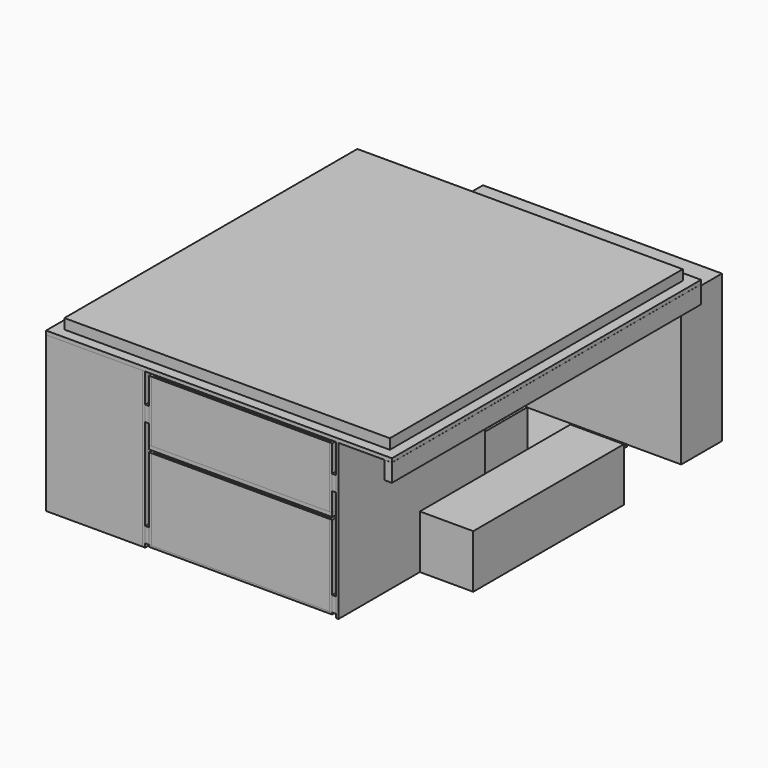
from build123d import *

# Parameters (mm, degrees)
F0_W           = 1727.2
F0_H           = 19.05
F1_DEPTH       = 1930.4
F0_W_2         = 38.1
F0_H_2         = 88.9
F3_W           = 266.7
F3_H           = 939.8
F4_DEPTH       = 266.7
F5_W           = 12.7
F5_H           = 774.7
F6_DEPTH       = 914.4
F7_W           = 19.05
F7_H           = 76.2
F8_DEPTH       = 914.4
F9_W           = 914.4
F9_H           = 9.525
F10_DEPTH      = 1219.2
F11_W          = 12.7
F11_H          = 1219.2
F12_DEPTH      = 406.4
F11_W_2        = 888.492
F11_H_2        = 12.7
F13_W          = 1625.6
F13_H          = 1828.8
F14_DEPTH      = 50.8
F15_W          = 1193.8
F15_H          = 736.6
F16_DEPTH      = 76.2
F16_DEPTH_BACK = 177.8
F17_W          = 482.6
F17_H          = 774.7
F18_DEPTH      = 1625.6
F19_W          = 914.4
F19_H          = 609.6
F20_DEPTH      = 9.525
F21_W          = 914.4
F21_H          = 19.05
F22_DEPTH      = 1219.2
F23_W          = 12.7
F23_H          = 1219.2
F24_DEPTH      = 304.8
F23_W_2        = 888.492
F23_H_2        = 12.7


with BuildPart() as f1:
    # F0 (on Front) → F1 (new body)
    with BuildSketch(Plane.XZ):
        with Locations((0, 784.225)):
            Rectangle(F0_W, F0_H)
    extrude(amount=-F1_DEPTH)

    # F13 (on face) → F14 (join)
    with BuildSketch(Plane.XY.offset(793.75)):
        with Locations((0, 965.2)):
            Rectangle(F13_W, F13_H)
    extrude(amount=F14_DEPTH)


with BuildPart() as f1b:
    # F0 (on Front) → F1, piece 2 (new body)
    with BuildSketch(Plane.XZ):
        with Locations((844.55, 729.996)):
            Rectangle(F0_W_2, F0_H_2)
    extrude(amount=-F1_DEPTH)


with BuildPart() as f1c:
    # F0 (on Front) → F1, piece 3 (new body)
    with BuildSketch(Plane.XZ):
        with Locations((-844.55, 729.996)):
            Rectangle(F0_W_2, F0_H_2)
    extrude(amount=-F1_DEPTH)


with BuildPart() as f4:
    # F3 (on Top) → F4 (new body)
    with BuildSketch(Plane.XY):
        with Locations((730.25, 977.9)):
            Rectangle(F3_W, F3_H)
    extrude(amount=F4_DEPTH)


with BuildPart() as f4b:
    # F3 (on Top) → F4, piece 2 (new body)
    with BuildSketch(Plane.XY):
        with Locations((-730.25, 977.9)):
            Rectangle(F3_W, F3_H)
    extrude(amount=F4_DEPTH)


with BuildPart() as f6:
    # F5 (on Front) → F6 (new body)
    with BuildSketch(Plane.XZ):
        with Locations((-374.65, 387.35)):
            Rectangle(F5_W, F5_H)
    extrude(amount=-F6_DEPTH)


with BuildPart() as f6b:
    # F5 (on Front) → F6, piece 2 (new body)
    with BuildSketch(Plane.XZ):
        with Locations((590.55, 387.35)):
            Rectangle(F5_W, F5_H)
    extrude(amount=-F6_DEPTH)


with BuildPart() as f8:
    # F7 (on Front) → F8 (new body)
    with BuildSketch(Plane.XZ):
        with Locations((-358.775, 57.15)):
            Rectangle(F7_W, F7_H)
    extrude(amount=-F8_DEPTH)


with BuildPart() as f8b:
    # F7 (on Front) → F8, piece 2 (new body)
    with BuildSketch(Plane.XZ):
        with Locations((574.675, 57.15)):
            Rectangle(F7_W, F7_H)
    extrude(amount=-F8_DEPTH)


with BuildPart() as f8c:
    # F7 (on Front) → F8, piece 3 (new body)
    with BuildSketch(Plane.XZ):
        with Locations((-358.775, 590.55)):
            Rectangle(F7_W, F7_H)
    extrude(amount=-F8_DEPTH)


with BuildPart() as f8d:
    # F7 (on Front) → F8, piece 4 (new body)
    with BuildSketch(Plane.XZ):
        with Locations((574.675, 590.55)):
            Rectangle(F7_W, F7_H)
    extrude(amount=-F8_DEPTH)


with BuildPart() as f10:
    # F9 (on Front) → F10 (new body)
    with BuildSketch(Plane.XZ):
        with Locations((107.95, 14.2875)):
            Rectangle(F9_W, F9_H)
    extrude(amount=-F10_DEPTH)


with BuildPart() as f12:
    # F11 (on face) → F12 (new body)
    with BuildSketch(Plane.XY.offset(19.05)):
        with Locations((-342.9, 609.6)):
            Rectangle(F11_W, F11_H)
    extrude(amount=F12_DEPTH)


with BuildPart() as f12b:
    # F11 (on face) → F12, piece 2 (new body)
    with BuildSketch(Plane.XY.offset(19.05)):
        with Locations((558.8, 609.6)):
            Rectangle(F11_W, F11_H)
    extrude(amount=F12_DEPTH)


with BuildPart() as f12c:
    # F11 (on face) → F12, piece 3 (new body)
    with BuildSketch(Plane.XY.offset(19.05)):
        with Locations((107.95, 1212.85)):
            Rectangle(F11_W_2, F11_H_2)
    extrude(amount=F12_DEPTH)


with BuildPart() as f12d:
    # F11 (on face) → F12, piece 4 (new body)
    with BuildSketch(Plane.XY.offset(19.05)):
        with Locations((107.95, 6.35)):
            Rectangle(F11_W_2, F11_H_2)
    extrude(amount=F12_DEPTH)


with BuildPart() as f16:
    # F15 (on face) → F16 (new body, two sides)
    with BuildSketch(Plane(origin=(0, 1930.4, 0), x_dir=(-1, 0, 0), z_dir=(0, 1, 0))) as f16_sk:
        with Locations((-228.6, 368.3)):
            Rectangle(F15_W, F15_H)
    extrude(amount=-F16_DEPTH)
    extrude(f16_sk.sketch, amount=F16_DEPTH_BACK)


with BuildPart() as f18:
    # F17 (on face) → F18 (new body)
    with BuildSketch(Plane.XZ):
        with Locations((-622.3, 387.35)):
            Rectangle(F17_W, F17_H)
    extrude(amount=-F18_DEPTH)


with BuildPart() as f20:
    # F19 (on Top) → F20 (new body)
    with BuildSketch(Plane.XY):
        with Locations((108.7481622696, 1536.3599918365)):
            Rectangle(F19_W, F19_H)
    extrude(amount=F20_DEPTH)


with BuildPart() as f22:
    # F21 (on face) → F22 (new body, through all)
    with BuildSketch(Plane.XZ):
        with Locations((107.95, 447.675)):
            Rectangle(F21_W, F21_H)
    extrude(amount=-F22_DEPTH)


with BuildPart() as f24:
    # F23 (on face) → F24 (new body, through all)
    with BuildSketch(Plane.XY.offset(457.2)):
        with Locations((-342.9, 609.6)):
            Rectangle(F23_W, F23_H)
    extrude(amount=F24_DEPTH)


with BuildPart() as f24b:
    # F23 (on face) → F24, piece 2 (new body, through all)
    with BuildSketch(Plane.XY.offset(457.2)):
        with Locations((558.8, 609.6)):
            Rectangle(F23_W, F23_H)
    extrude(amount=F24_DEPTH)


with BuildPart() as f24c:
    # F23 (on face) → F24, piece 3 (new body, through all)
    with BuildSketch(Plane.XY.offset(457.2)):
        with Locations((107.95, 6.35)):
            Rectangle(F23_W_2, F23_H_2)
    extrude(amount=F24_DEPTH)


with BuildPart() as f24d:
    # F23 (on face) → F24, piece 4 (new body, through all)
    with BuildSketch(Plane.XY.offset(457.2)):
        with Locations((107.95, 1212.85)):
            Rectangle(F23_W_2, F23_H_2)
    extrude(amount=F24_DEPTH)


solid = Compound([f1.part, f1b.part, f1c.part, f4.part, f4b.part, f6.part, f6b.part, f8.part, f8b.part, f8c.part, f8d.part, f10.part, f12.part, f12b.part, f12c.part, f12d.part, f16.part, f18.part, f20.part, f22.part, f24.part, f24b.part, f24c.part, f24d.part])
